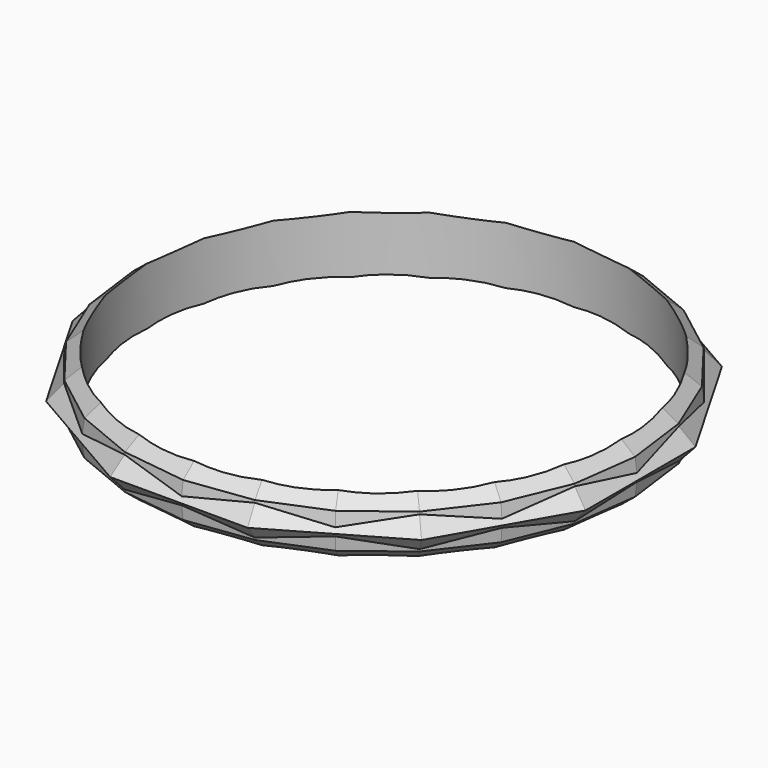
from build123d import *

# Parameters (mm, degrees)
F5_W = 0.5
F5_H = 2


with BuildPart() as f3:
    # F3: sweep along a path in F2
    with BuildLine(Plane.XY) as f3_path:
        Line((-8.2, 0), (-7.9205917756, 2.1223161698))
        Line((-7.9205917756, 2.1223161698), (-7.101408311, 4.1))
        Line((-7.101408311, 4.1), (-5.7982756057, 5.7982756057))
        Line((-5.7982756057, 5.7982756057), (-4.1, 7.101408311))
        Line((-4.1, 7.101408311), (-2.1223161698, 7.9205917756))
        Line((-2.1223161698, 7.9205917756), (0, 8.2))
        Line((0, 8.2), (2.1223161698, 7.9205917756))
        Line((2.1223161698, 7.9205917756), (4.1, 7.101408311))
        Line((4.1, 7.101408311), (5.7982756057, 5.7982756057))
        Line((5.7982756057, 5.7982756057), (7.101408311, 4.1))
        Line((7.101408311, 4.1), (7.9205917756, 2.1223161698))
        Line((7.9205917756, 2.1223161698), (8.2, 0))
        Line((8.2, 0), (7.9205917756, -2.1223161698))
        Line((7.9205917756, -2.1223161698), (7.101408311, -4.1))
        Line((7.101408311, -4.1), (5.7982756057, -5.7982756057))
        Line((5.7982756057, -5.7982756057), (4.1, -7.101408311))
        Line((4.1, -7.101408311), (2.1223161698, -7.9205917756))
        Line((2.1223161698, -7.9205917756), (0, -8.2))
        Line((0, -8.2), (-2.1223161698, -7.9205917756))
        Line((-2.1223161698, -7.9205917756), (-4.1, -7.101408311))
        Line((-4.1, -7.101408311), (-5.7982756057, -5.7982756057))
        Line((-5.7982756057, -5.7982756057), (-7.101408311, -4.1))
        Line((-7.101408311, -4.1), (-7.9205917756, -2.1223161698))
        Line((-7.9205917756, -2.1223161698), (-8.2, 0))
    # F1 (on Front) → F3 (sweep)
    with BuildSketch(Plane.XZ):
        Polygon((-8.255, -1), (-8.255, 1), (-8.735039811, 0.6112714258), (-8.8155152209, 0), (-8.735039811, -0.6112714258), align=None)
    sweep(path=f3_path.line, transition=Transition.RIGHT)

    # F6: sweep along a path in F0
    with BuildLine(Plane.XY) as f6_path:
        CenterArc((0, 0), 8.255, 0, 360)
    # F5 (on Front) → F6 (sweep, cut)
    with BuildSketch(Plane.XZ):
        with Locations((-8.005, 0)):
            Rectangle(F5_W, F5_H)
    sweep(path=f6_path.line, mode=Mode.SUBTRACT)

    # F9: sweep along a path in F7
    with BuildLine(Plane.XY) as f9_path:
        Line((-8.255, -2.2119205835), (-8.255, 2.2119205835))
        Line((-8.255, 2.2119205835), (-6.0430794165, 6.0430794165))
        Line((-6.0430794165, 6.0430794165), (-2.2119205835, 8.255))
        Line((-2.2119205835, 8.255), (2.2119205835, 8.255))
        Line((2.2119205835, 8.255), (6.0430794165, 6.0430794165))
        Line((6.0430794165, 6.0430794165), (8.255, 2.2119205835))
        Line((8.255, 2.2119205835), (8.255, -2.2119205835))
        Line((8.255, -2.2119205835), (6.0430794165, -6.0430794165))
        Line((6.0430794165, -6.0430794165), (2.2119205835, -8.255))
        Line((2.2119205835, -8.255), (-2.2119205835, -8.255))
        Line((-2.2119205835, -8.255), (-6.0430794165, -6.0430794165))
        Line((-6.0430794165, -6.0430794165), (-8.255, -2.2119205835))
    # F8 (on Front) → F9 (sweep)
    with BuildSketch(Plane.XZ):
        Polygon((-8.255, -0.75), (-8.255, 0.75), (-8.9203372997, 0), align=None)
    sweep(path=f9_path.line, transition=Transition.RIGHT)


solid = f3.part
